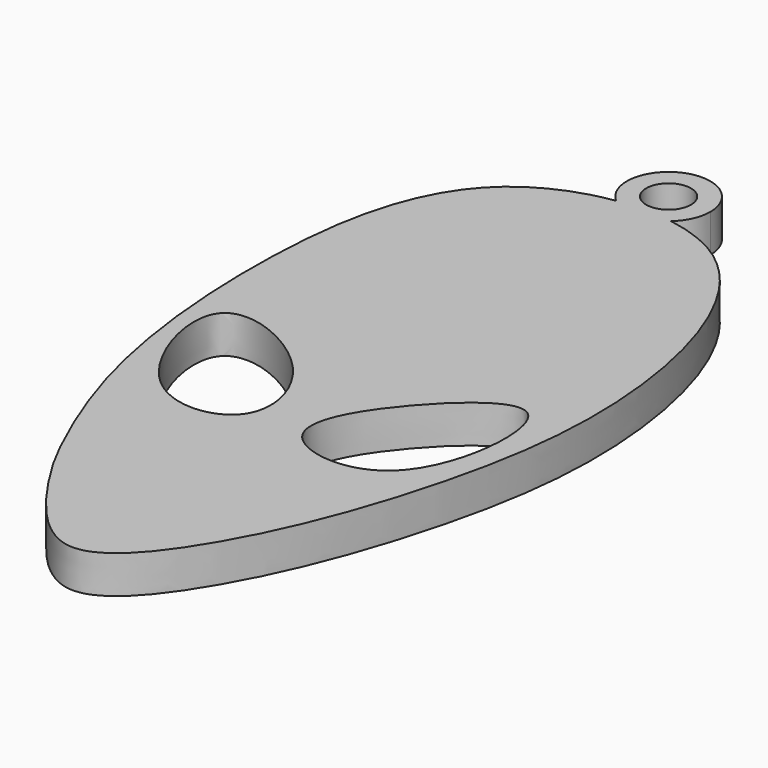
from build123d import *

# Parameters (mm, degrees)
F1_DEPTH = 2.5
F2_R     = 1.4771205513
F3_DEPTH = 25


with BuildPart() as f1:
    # F0 (on Top) → F1 (new body)
    with BuildSketch(Plane.XY):
        with BuildLine():
            add(Edge.make_bspline(
                [(0, 14.825746417), (0.167863444, 20.0022890152), (1.3667893901, 27.6021823887), (7.8959485631, 30.3393036637), (9.953272889, 30.6456793182)],
                knots=[0, 0, 0, 0, 0.113420084, 0.1622092381, 0.1622092381, 0.1622092381, 0.1622092381], degree=3))
            add(Edge.make_bspline(
                [(13.5921993381, 30.6356505224), (14.8462921296, 30.4342026366), (20.881347495, 28.350736449), (25.2195439931, 14.3286721289), (22.9778569542, 0.162910426), (18.4931180073, -11.8713110932), (12.0255993506, -19.6404722741), (6.2906878202, -11.7572856256), (4.3933224566, -8.1783464941), (0.7681679561, 0.4101069623), (-0.172281132, 9.5129719529), (0, 14.825746417)],
                knots=[0.1908321714, 0.1908321714, 0.1908321714, 0.1908321714, 0.2209252704, 0.3418119684, 0.4581249885, 0.5679560411, 0.649433759, 0.731134881, 0.7949647144, 0.8835950222, 1, 1, 1, 1], degree=3))
            ThreePointArc((13.5921993381, 30.6356505224), (11.7708431236, 29.9537976991), (9.953272889, 30.6456793182))
        make_face()
        with BuildLine():
            add(Edge.make_bspline(
                [(1.879097661, 8.1122070551), (3.0374968137, 9.3931724764), (9.61174191, 6.6381997337), (11.4101026294, -1.027954001), (3.235347837, -1.8375837292), (0.5926644909, 6.6896607732), (1.879097661, 8.1122070551)],
                knots=[0, 0, 0, 0, 0.2547447371, 0.4929875566, 0.7170991718, 1, 1, 1, 1], degree=3))
        make_face(mode=Mode.SUBTRACT)
        with BuildLine():
            add(Edge.make_bspline(
                [(13.7470802292, 0), (12.729221523, 1.3795650448), (15.1311777222, 6.0330100024), (23.0661022879, 12.8030680993), (21.8949979612, -2.4005390473), (14.7594531641, -1.3721298494), (13.7470802292, 0)],
                knots=[0, 0, 0, 0, 0.2356302273, 0.4764831039, 0.7656397069, 1, 1, 1, 1], degree=3))
        make_face(mode=Mode.SUBTRACT)
        with BuildLine():
            ThreePointArc((14.5316904875, 32.7070467174), (10.6480983553, 35.2175816833), (9.953272889, 30.6456793182))
            add(Edge.make_bspline(
                [(9.953272889, 30.6456793182), (11.1602349289, 30.8254194692), (12.3993738892, 30.8272568903), (13.5921993381, 30.6356505224)],
                knots=[0.1622092381, 0.1622092381, 0.1622092381, 0.1622092381, 0.1908321714, 0.1908321714, 0.1908321714, 0.1908321714], degree=3))
            ThreePointArc((13.5921993381, 30.6356505224), (14.2858412865, 31.569799403), (14.5316904875, 32.7070467174))
        make_face()
        with BuildLine():
            add(Edge.make_bspline(
                [(9.953272889, 30.6456793182), (11.1602349289, 30.8254194692), (12.3993738892, 30.8272568903), (13.5921993381, 30.6356505224)],
                knots=[0.1622092381, 0.1622092381, 0.1622092381, 0.1622092381, 0.1908321714, 0.1908321714, 0.1908321714, 0.1908321714], degree=3))
            ThreePointArc((9.953272889, 30.6456793182), (11.7708431236, 29.9537976991), (13.5921993381, 30.6356505224))
        make_face()
    extrude(amount=F1_DEPTH)

    # F2 (on face) → F3 (cut)
    with BuildSketch(Plane.XY.offset(2.5)):
        with Locations((11.7784310132, 32.7070467174)):
            Circle(F2_R)
    extrude(amount=-F3_DEPTH, mode=Mode.SUBTRACT)


solid = f1.part
